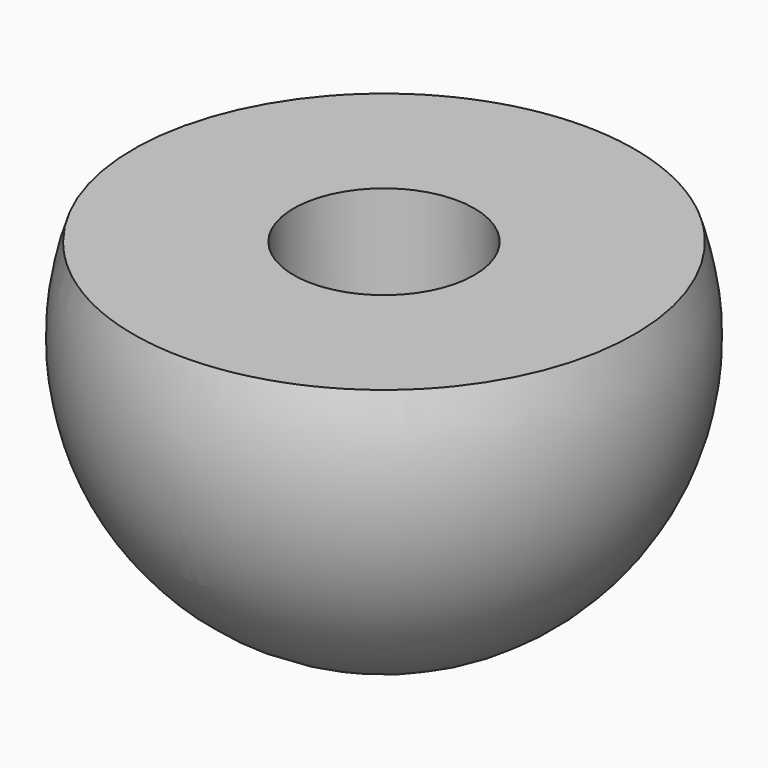
from build123d import *

# Parameters (mm, degrees)
F2_W     = 25.694864
F2_H     = 24.584594
F3_DEPTH = 25
F6_R     = 3.25
F7_DEPTH = 3.5


with BuildPart() as f1:
    # F0 (on Right) → F1 (revolve)
    with BuildSketch(Plane.YZ):
        with BuildLine():
            Line((9.5, 0), (-9.5, 0))
            ThreePointArc((-9.5, 0), (0, -9.5), (9.5, 0))
        make_face()
    revolve(axis=Axis((0, 0, 0), (0, 1, 0)))


with BuildPart() as f3:
    # F2 (on Top) → F3 (new body)
    with BuildSketch(Plane.XY):
        Rectangle(F2_W, F2_H)
    extrude(amount=F3_DEPTH)


with BuildPart() as f3_1:
    # F4: moved
    add(f3.part.moved(Location((0, 0, 3))))


with BuildPart() as f1_1:
    add(f1.part)

    # F5: cut F3
    add(f3_1.part, mode=Mode.SUBTRACT)

    # F6 (on face) → F7 (cut)
    with BuildSketch(Plane.XY.offset(3)):
        Circle(F6_R)
    extrude(amount=-F7_DEPTH, mode=Mode.SUBTRACT)


solid = f1_1.part
